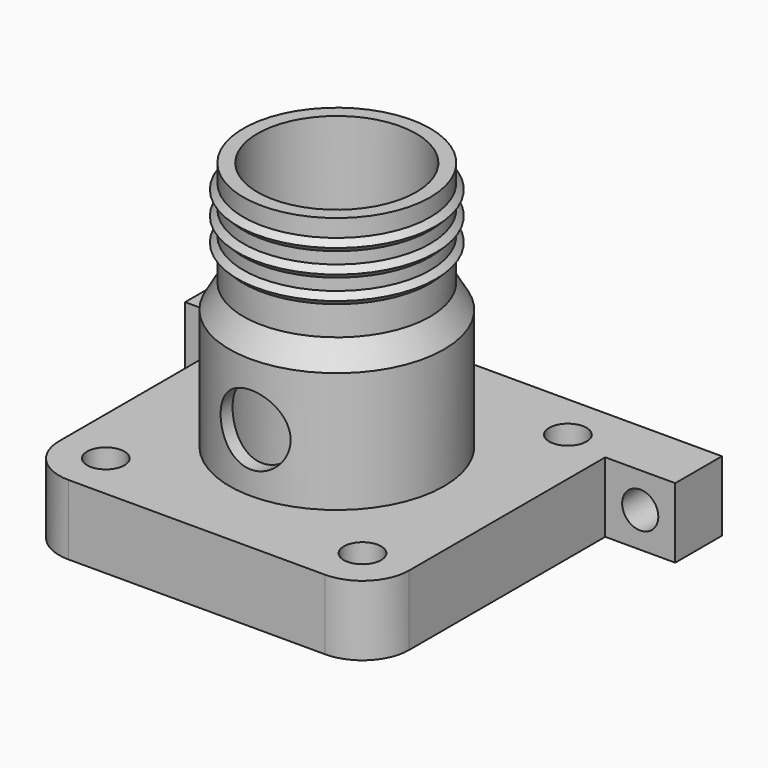
from build123d import *

# Parameters (mm, degrees)
SKETCH_W        = 30
SKETCH_H        = 30
SKETCH_R        = 8
SKETCH_R_2      = 1.6
PAD_DEPTH       = 6
SKETCH002_R     = 3
POCKET_DEPTH    = 15.001
COPYSKETCH003_W = 7
COPYSKETCH003_H = 5
PAD001_DEPTH    = 6
COPYSKETCH004_R = 1.55
POCKET001_DEPTH = 5
FILLET_R        = 4


with BuildPart() as part:
    # Sketch → Pad (new body)
    with BuildSketch(Plane.XY):
        Rectangle(SKETCH_W, SKETCH_H)
        Circle(SKETCH_R, mode=Mode.SUBTRACT)
        with Locations((-11, 11)):
            Circle(SKETCH_R_2, mode=Mode.SUBTRACT)
        with Locations((11, 11)):
            Circle(SKETCH_R_2, mode=Mode.SUBTRACT)
        with Locations((-11, -11)):
            Circle(SKETCH_R_2, mode=Mode.SUBTRACT)
        with Locations((11, -11)):
            Circle(SKETCH_R_2, mode=Mode.SUBTRACT)
    extrude(amount=PAD_DEPTH)

    # Sketch001 → Revolution (revolve)
    with BuildSketch(Plane.XZ):
        Polygon((9.2, 6), (9.2, 16.321539), (8, 18.4), (8, 20.9), (8.5, 21.4), (8, 21.9), (8, 22.9), (8.5, 23.4), (8, 23.9), (8, 24.9), (8.5, 25.4), (8, 25.9), (8, 27.4), (6.8, 27.4), (6.8, 18.078461), (8, 16), (8, 6), align=None)
    revolve(axis=Axis((0, 0, 0), (0, 0, 1)))

    # Sketch002 → Pocket (cut, through all)
    with BuildSketch(Plane.XZ):
        with Locations((0, 11)):
            Circle(SKETCH002_R)
    extrude(amount=POCKET_DEPTH, mode=Mode.SUBTRACT)

    # CopySketch003 → Pad001 (join)
    with BuildSketch(Plane(origin=(0, 0, 0), x_dir=(1, 0, 0), z_dir=(0, 0, -1))):
        with Locations((-17.5, -12.5)):
            Rectangle(COPYSKETCH003_W, COPYSKETCH003_H)
        with Locations((17.5, -12.5)):
            Rectangle(COPYSKETCH003_W, COPYSKETCH003_H)
    extrude(amount=-PAD001_DEPTH)

    # CopySketch004 → Pocket001 (cut)
    with BuildSketch(Plane.XZ.offset(-10)):
        with Locations((-18, 3)):
            Circle(COPYSKETCH004_R)
        with Locations((18, 3)):
            Circle(COPYSKETCH004_R)
    extrude(amount=-POCKET001_DEPTH, mode=Mode.SUBTRACT)

    # Fillet
    fillet_edges = [part.edges().sort_by_distance(p)[0] for p in [
        (-15, -15, 3),
        (15, -15, 3),
    ]]
    fillet(fillet_edges, radius=FILLET_R)


solid = part.part
